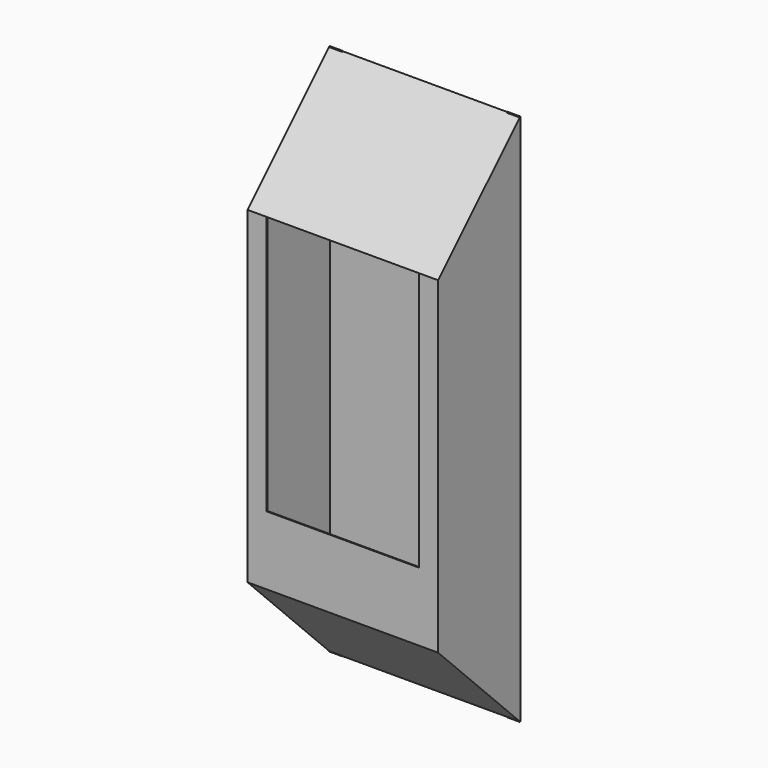
from build123d import *

# Parameters (mm, degrees)
F1_DEPTH = 317.5
F2_T     = -3.175
F4_DEPTH = 1.5875
F5_W     = 508
F5_H     = 863.6
F6_DEPTH = 4.4911280605


with BuildPart() as f1:
    # F0 (on Right) → F1 (new body, symmetric)
    with BuildSketch(Plane.YZ):
        Polygon((-340.995, 340.995), (0, 0), (0, 1774.19), (-340.995, 1433.195), align=None)
    extrude(amount=F1_DEPTH, both=True)

    # F2
    f2_openings = [f1.faces().sort_by_distance(p)[0] for p in [
        (0, 0, 887.095),
    ]]
    offset(amount=F2_T, openings=f2_openings)

    # F3 (on Front) → F4 (join, symmetric)
    with BuildSketch(Plane.XZ):
        Polygon((-273.1135, 247.904), (273.1135, 247.904), (273.1135, 0), (317.5, 0), (317.5, 247.904), (317.5, 1526.286), (317.5, 1774.19), (273.1135, 1774.19), (273.1135, 1526.286), (-273.1135, 1526.286), (-273.1135, 1774.19), (-317.5, 1774.19), (-317.5, 1526.286), (-317.5, 247.904), (-317.5, 0), (-273.1135, 0), align=None)
    extrude(amount=F4_DEPTH, both=True)

    # F5 (on face) → F6 (cut, through all)
    with BuildSketch(Plane.XZ.offset(340.995)):
        with Locations((0, 1001.395)):
            Rectangle(F5_W, F5_H)
    extrude(amount=-F6_DEPTH, mode=Mode.SUBTRACT)


solid = f1.part
